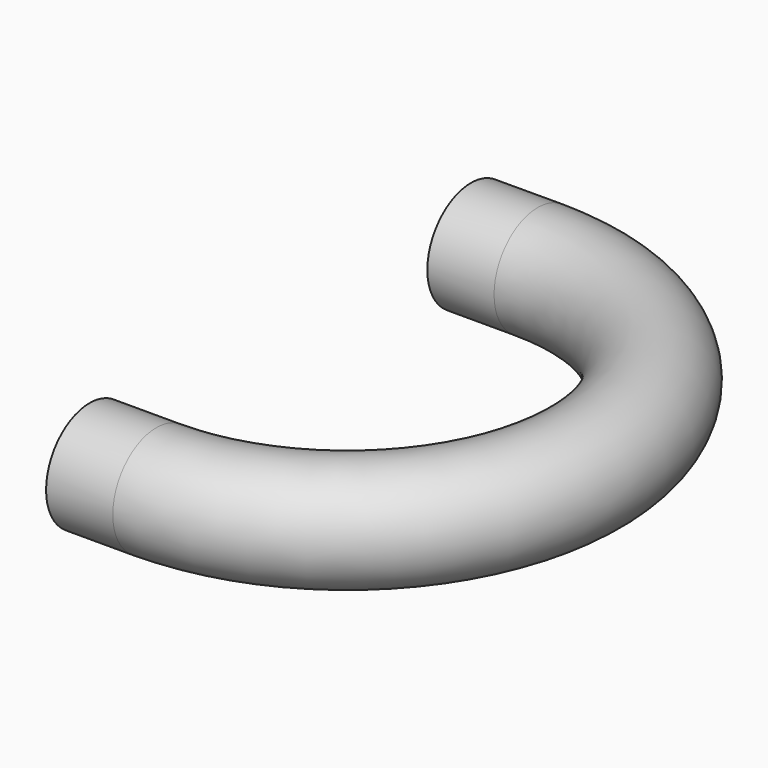
from build123d import *

# Parameters (mm, degrees)
F1_R     = 5.715
F1_R_2   = 3.175
F3_R     = 5.715
F3_R_2   = 4.70576
F4_DEPTH = 7


with BuildPart() as f2:
    # F2: sweep along a path in F0
    with BuildLine(Plane.XY) as f2_path:
        ThreePointArc((0, 25), (25, 0), (0, -25))
    # F1 (on Right) → F2 (sweep)
    with BuildSketch(Plane.YZ):
        with Locations((25, 0)):
            Circle(F1_R)
        with Locations((25, 0)):
            Circle(F1_R_2, mode=Mode.SUBTRACT)
    sweep(path=f2_path.line)

    # F3 (on face) → F4 (join)
    with BuildSketch(Plane(origin=(0, 0, 0), x_dir=(0, -1, 0), z_dir=(-1, 0, 0))):
        with Locations((25, 0)):
            Circle(F3_R)
        with Locations((25, 0)):
            Circle(F3_R_2, mode=Mode.SUBTRACT)
        with Locations((-25, 0)):
            Circle(F3_R)
        with Locations((-25, 0)):
            Circle(F3_R_2, mode=Mode.SUBTRACT)
    extrude(amount=F4_DEPTH)


solid = f2.part
